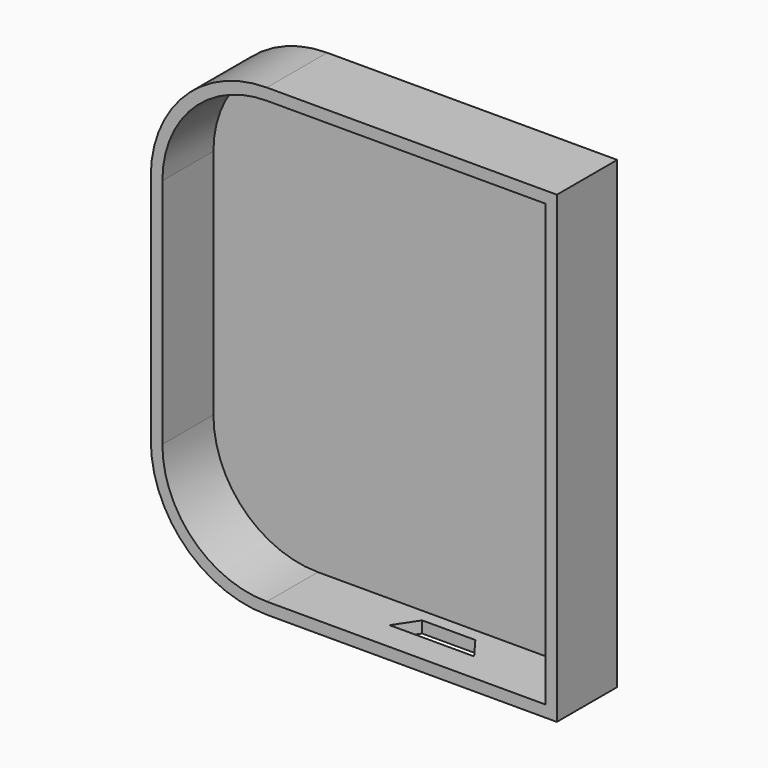
from build123d import *

# Parameters (mm, degrees)
F1_DEPTH      = 6.5
F2_T          = -1
F4_DEPTH      = 25
F6_DEPTH      = 1
F6_TAPER      = -3
F6_DEPTH_BACK = 1
F8_R          = 0.7736909367
F9_DEPTH      = 0.5
F8_R_2        = 0.7572129145


with BuildPart() as f1:
    # F0 (on Front) → F1 (new body)
    with BuildSketch(Plane.XZ):
        with BuildLine():
            Line((-22.9567318037, 57.8343560425), (-47.9567318037, 57.8343560425))
            ThreePointArc((-47.9567318037, 57.8343560425), (-55.0277996156, 54.9054238543), (-57.9567318037, 47.8343560425))
            Line((-57.9567318037, 47.8343560425), (-57.9567318037, 27.8343560425))
            ThreePointArc((-57.9567318037, 27.8343560425), (-55.0277996156, 20.7632882306), (-47.9567318037, 17.8343560425))
            Line((-47.9567318037, 17.8343560425), (-22.9567318037, 17.8343560425))
            Line((-22.9567318037, 17.8343560425), (-22.9567318037, 57.8343560425))
        make_face()
    extrude(amount=F1_DEPTH)

    # F2
    f2_openings = [f1.faces().sort_by_distance(p)[0] for p in [
        (-39.973904, -6.5, 37.834356),
    ]]
    offset(amount=F2_T, openings=f2_openings)

    # F3 (on face) → F4 (cut)
    with BuildSketch(Plane(origin=(0, 0, 17.8343560425), x_dir=(1, 0, 0), z_dir=(0, 0, -1))):
        Polygon((-32.0718251169, 4.0201582015), (-39.3545180559, 4.0201582015), (-38.0867905915, 2.1050791256), (-33.5013903677, 2.1050791256), align=None)
    extrude(amount=-F4_DEPTH, mode=Mode.SUBTRACT)

    # F5 (on face) → F6 (join, two sides)
    with BuildSketch(Plane(origin=(0, 0, 0), x_dir=(-1, 0, 0), z_dir=(0, 1, 0))) as f6_sk:
        with BuildLine():
            ThreePointArc((40.9020219445, 40.8042357862), (40.7555753351, 41.1577891768), (40.4020219445, 41.3042357862))
            Line((40.4020219445, 41.3042357862), (37.4020219445, 41.3042357862))
            ThreePointArc((37.4020219445, 41.3042357862), (37.0484685539, 41.1577891768), (36.9020219445, 40.8042357862))
            Line((36.9020219445, 40.8042357862), (36.9020219445, 35.8042357862))
            ThreePointArc((36.9020219445, 35.8042357862), (37.0484685539, 35.4506823956), (37.4020219445, 35.3042357862))
            Line((37.4020219445, 35.3042357862), (40.4020219445, 35.3042357862))
            ThreePointArc((40.4020219445, 35.3042357862), (40.7555753351, 35.4506823956), (40.9020219445, 35.8042357862))
            Line((40.9020219445, 35.8042357862), (40.9020219445, 40.8042357862))
        make_face()
    extrude(amount=F6_DEPTH, taper=F6_TAPER)
    extrude(f6_sk.sketch, amount=-F6_DEPTH_BACK)


with BuildPart() as f9:
    # F8 (on face) → F9 (new body)
    with BuildSketch(Plane(origin=(0, 1, 0), x_dir=(-1, 0, 0), z_dir=(0, 1, 0))):
        with Locations((38.8640463352, 39.4127853215)):
            Circle(F8_R)
    extrude(amount=F9_DEPTH)


with BuildPart() as f9b:
    # F8 (on face) → F9, piece 2 (new body)
    with BuildSketch(Plane(origin=(0, 1, 0), x_dir=(-1, 0, 0), z_dir=(0, 1, 0))):
        with Locations((38.8648360968, 37.359084934)):
            Circle(F8_R_2)
    extrude(amount=F9_DEPTH)


solid = Compound([f1.part, f9.part, f9b.part])
